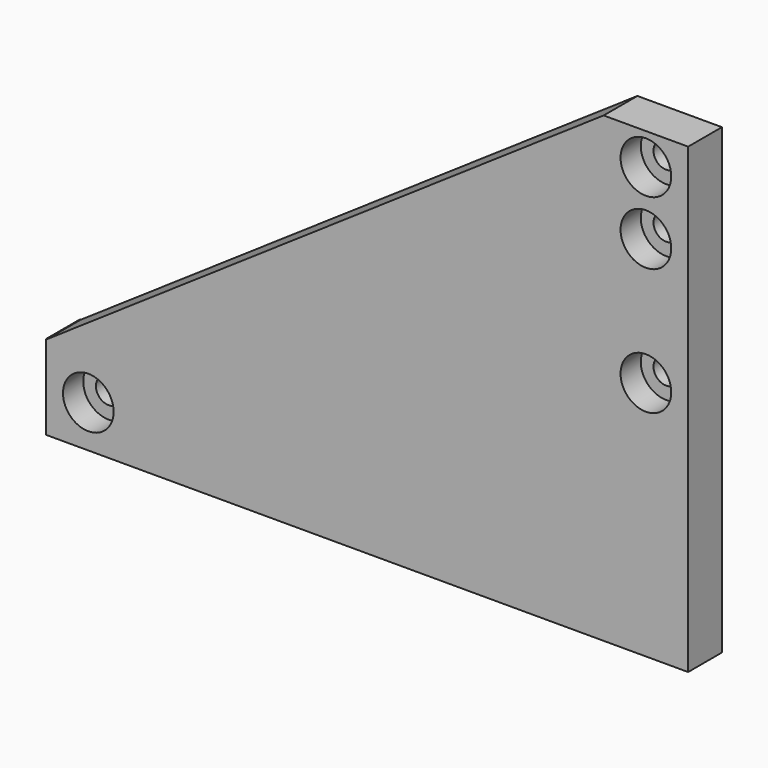
from build123d import *

# Parameters (mm, degrees)
PAD_DEPTH       = 5
SKETCH001_R     = 1.5
POCKET_DEPTH    = 5.001
SKETCH002_R     = 3
POCKET001_DEPTH = 3


with BuildPart() as part:
    # Sketch → Pad (new body)
    with BuildSketch(Plane.XZ):
        Polygon((0, 0), (0, 10), (0.1, 10), (66, 54.75), (76, 54.75), (76, 0), align=None)
    extrude(amount=PAD_DEPTH)

    # Sketch001 (on Face8 of Pad) → Pocket (cut, through all)
    with BuildSketch(Plane.XZ.offset(5)):
        with Locations((5, 5)):
            Circle(SKETCH001_R)
        with Locations((71, 51)):
            Circle(SKETCH001_R)
        with Locations((71, 43.5)):
            Circle(SKETCH001_R)
        with Locations((71, 28.5)):
            Circle(SKETCH001_R)
    extrude(amount=-POCKET_DEPTH, mode=Mode.SUBTRACT)

    # Sketch002 (on Face5 of Pocket) → Pocket001 (cut)
    with BuildSketch(Plane.XZ.offset(5)):
        with Locations((71, 28.5)):
            Circle(SKETCH002_R)
        with Locations((71, 43.5)):
            Circle(SKETCH002_R)
        with Locations((71, 51)):
            Circle(SKETCH002_R)
        with Locations((5, 5)):
            Circle(SKETCH002_R)
    extrude(amount=-POCKET001_DEPTH, mode=Mode.SUBTRACT)


solid = part.part
